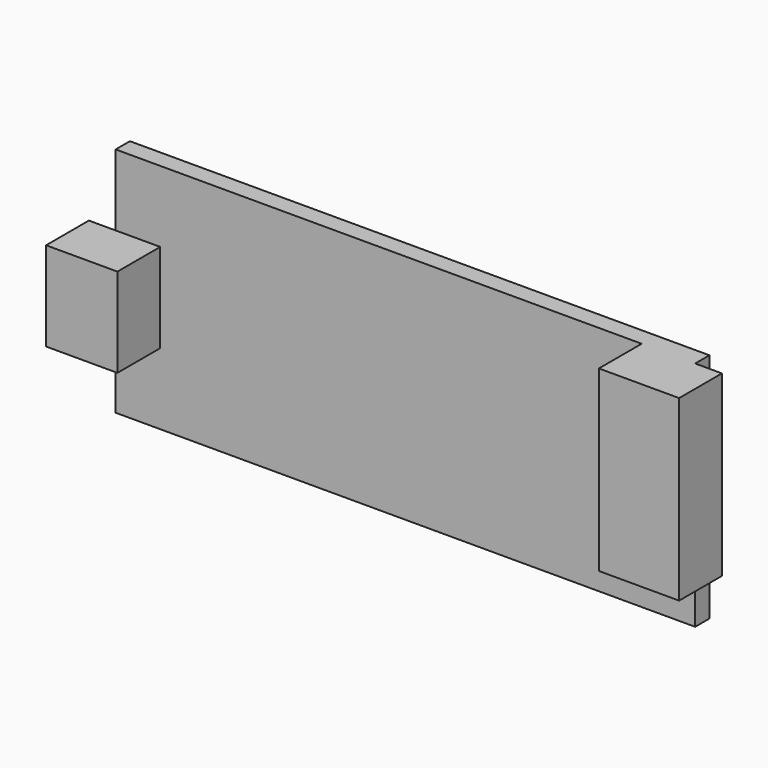
from build123d import *

# Parameters (mm, degrees)
F0_W     = 65
F0_H     = 26
F1_DEPTH = 2
F2_W     = 3
F2_H     = 10
F2_W_2   = 5
F2_W_3   = 6
F2_H_2   = 20
F3_DEPTH = 6


with BuildPart() as f1:
    # F0 (on Front) → F1 (new body)
    with BuildSketch(Plane.XZ):
        Rectangle(F0_W, F0_H)
    extrude(amount=F1_DEPTH)

    # F2 (on face) → F3 (join)
    with BuildSketch(Plane.XZ.offset(2)):
        with Locations((-34, 0)):
            Rectangle(F2_W, F2_H)
        with Locations((-30, 0)):
            Rectangle(F2_W_2, F2_H)
        with Locations((29.5, 3)):
            Rectangle(F2_W_3, F2_H_2)
        with Locations((34, 3)):
            Rectangle(F2_W, F2_H_2)
    extrude(amount=F3_DEPTH)


solid = f1.part
